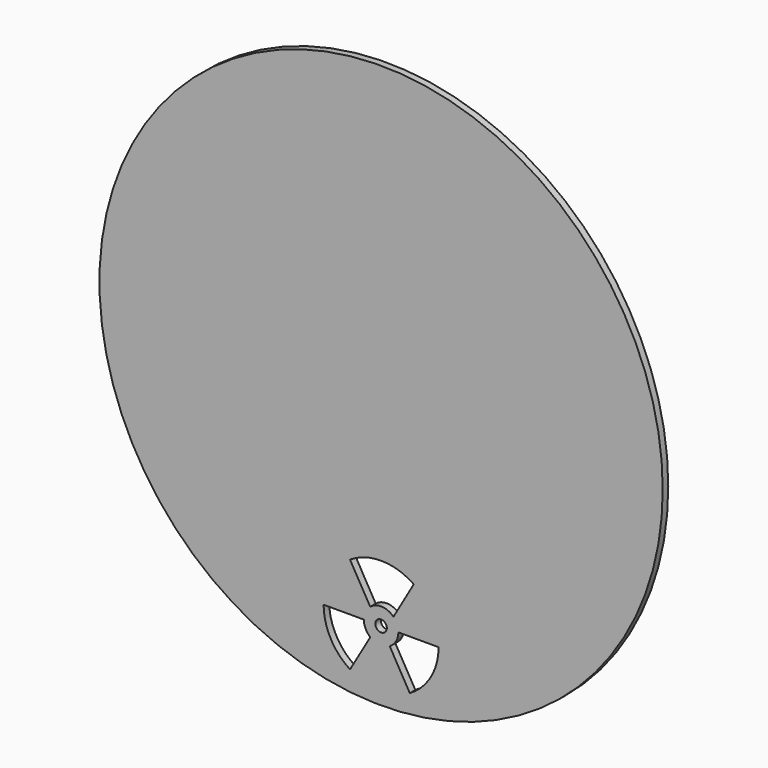
from build123d import *

# Parameters (mm, degrees)
F0_R     = 245
F0_R_2   = 5
F1_DEPTH = 6


with BuildPart() as f1:
    # F0 (on Front) → F1 (new body)
    with BuildSketch(Plane.XZ):
        Circle(F0_R)
        with BuildLine():
            ThreePointArc((-27.007491, -226.181456), (-43.876956, -208.078265), (-50, -184.103012))
            Line((-50, -184.103012), (-15, -184.103012))
            ThreePointArc((-15, -184.103012), (-13.539528, -190.559109), (-9.442508, -195.758013))
            Line((-9.442508, -195.758013), (-27.007491, -226.181456))
        make_face(mode=Mode.SUBTRACT)
        with BuildLine():
            Line((15, -184.103012), (50, -184.103012))
            ThreePointArc((50, -184.103012), (43.294369, -209.114961), (24.976096, -227.418074))
            Line((24.976096, -227.418074), (7.476087, -197.10717))
            ThreePointArc((7.476087, -197.10717), (12.983476, -191.614959), (15, -184.103012))
        make_face(mode=Mode.SUBTRACT)
        with Locations((0, -184.103012)):
            Circle(F0_R_2, mode=Mode.SUBTRACT)
        with BuildLine():
            Line((-9.480363, -172.478782), (-27.048061, -142.050636))
            ThreePointArc((-27.048061, -142.050636), (0.820629, -134.109747), (28.413679, -142.961028))
            Line((28.413679, -142.961028), (10.718673, -173.609678))
            ThreePointArc((10.718673, -173.609678), (0.838501, -169.126467), (-9.480363, -172.478782))
        make_face(mode=Mode.SUBTRACT)
    extrude(amount=F1_DEPTH)


solid = f1.part
